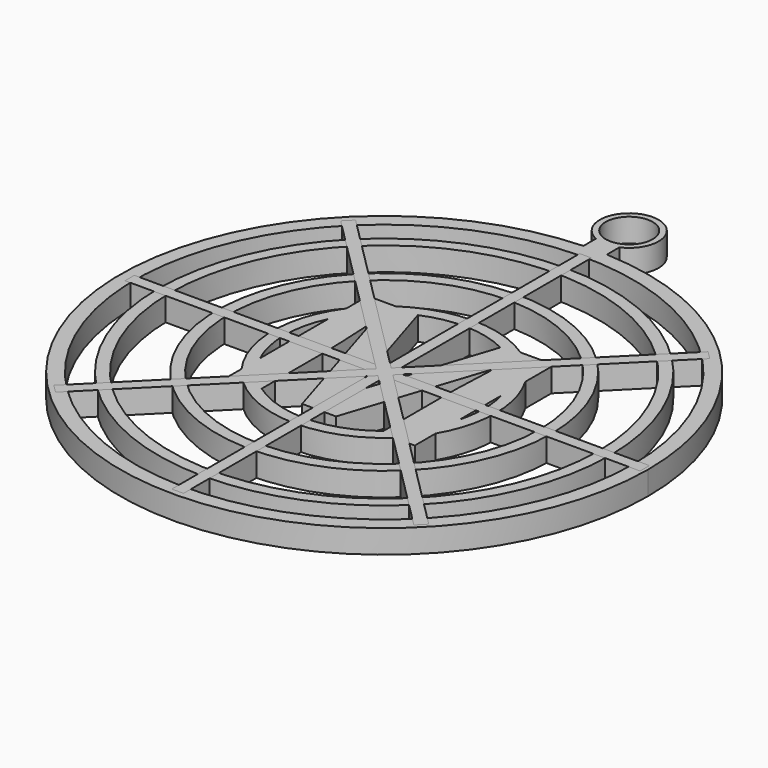
from build123d import *

# Parameters (mm, degrees)
F0_R     = 57.15
F1_DEPTH = 2.54
F2_R     = 53.975
F2_R_2   = 48.895
F2_R_3   = 46.355
F2_R_4   = 36.195
F2_R_5   = 33.655
F3_DEPTH = 5.08
F4_W     = 2.54
F4_H     = 38.1
F4_H_2   = 2.501237991
F4_W_2   = 18.2595572917
F4_H_3   = 2.54
F4_H_4   = 53.2313856006
F4_W_3   = 35.56
F4_W_4   = 19.5824739583
F5_DEPTH = 5.08
F7_DEPTH = 5.08
F8_R     = 5.08
F9_DEPTH = 2.54


with BuildPart() as f1:
    # F0 (on Top) → F1 (new body, symmetric)
    with BuildSketch(Plane.XY):
        Circle(F0_R)
    extrude(amount=F1_DEPTH, both=True)

    # F2 (on face) → F3 (cut, through all)
    with BuildSketch(Plane.XY.offset(2.54)):
        Circle(F2_R)
        Circle(F2_R_2, mode=Mode.SUBTRACT)
        Circle(F2_R_3)
        Circle(F2_R_4, mode=Mode.SUBTRACT)
        Circle(F2_R_5)
        with BuildLine():
            Line((20.8524739583, 19.9975390625), (20.8524739583, 12.1421262478))
            ThreePointArc((20.8524739583, 12.1421262478), (23.2962131753, 6.2883504747), (24.13, 0))
            ThreePointArc((24.13, 0), (23.2962131753, -6.2883504747), (20.8524739583, -12.1421262478))
            Line((20.8524739583, -12.1421262478), (20.8524739583, -17.78))
            Line((20.8524739583, -17.78), (16.3134453749, -17.78))
            ThreePointArc((16.3134453749, -17.78), (0, -24.13), (-16.3134453749, -17.78))
            Line((-16.3134453749, -17.78), (-19.5295572917, -17.78))
            Line((-19.5295572917, -17.78), (-19.5295572917, -14.1722719418))
            ThreePointArc((-19.5295572917, -14.1722719418), (-24.13, 0), (-19.5295572917, 14.1722719418))
            Line((-19.5295572917, 14.1722719418), (-19.5295572917, 19.9975390625))
            Line((-19.5295572917, 19.9975390625), (-13.5039006011, 19.9975390625))
            ThreePointArc((-13.5039006011, 19.9975390625), (0, 24.13), (13.5039006011, 19.9975390625))
            Line((13.5039006011, 19.9975390625), (20.8524739583, 19.9975390625))
        make_face(mode=Mode.SUBTRACT)
        with BuildLine():
            ThreePointArc((-12.3692708333, -17.6954581475), (0.6336834551, -21.5806984428), (13.3862630208, -16.9391871805))
            Line((13.3862630208, -16.9391871805), (13.3862630208, 0.1041796875))
            add(Edge.make_bspline(
                [(13.3862630208, 0.1041796875), (13.3862630208, 1.36921875), (13.4276041667, 3.0228645833)],
                knots=[0, 0, 0, 1, 1, 1], degree=2))
            add(Edge.make_bspline(
                [(13.4276041667, 3.0228645833), (13.4689453125, 4.6765104167), (13.7748697917, 11.8037239583)],
                knots=[0, 0, 0, 1, 1, 1], degree=2))
            Line((13.7748697917, 11.8037239583), (13.543359375, 11.8037239583))
            Line((13.543359375, 11.8037239583), (3.8033854167, -17.78))
            Line((3.8033854167, -17.78), (-3.5388020833, -17.78))
            Line((-3.5388020833, -17.78), (-12.6338541667, 11.8533333333))
            Line((-12.6338541667, 11.8533333333), (-12.8653645833, 11.8533333333))
            add(Edge.make_bspline(
                [(-12.8653645833, 11.8533333333), (-12.3692708333, 2.8161588542), (-12.3692708333, -0.2100130208)],
                knots=[0, 0, 0, 1, 1, 1], degree=2))
            Line((-12.3692708333, -0.2100130208), (-12.3692708333, -17.6954581475))
        make_face()
        with BuildLine():
            Line((0.4712890625, -8.8916536458), (9.7189801969, 19.2787324254))
            ThreePointArc((9.7189801969, 19.2787324254), (0.6353636743, 21.5806490403), (-8.5679449715, 19.8171243869))
            Line((-8.5679449715, 19.8171243869), (0.3141927083, -8.8916536458))
            Line((0.3141927083, -8.8916536458), (0.4712890625, -8.8916536458))
        make_face()
        with BuildLine():
            Line((-19.5295572917, -9.2045908107), (-19.5295572917, 9.2045908107))
            ThreePointArc((-19.5295572917, 9.2045908107), (-21.59, 0), (-19.5295572917, -9.2045908107))
        make_face()
        with BuildLine():
            ThreePointArc((20.8524739583, -5.5948574439), (21.4048243716, -2.8216296036), (21.59, 0))
            ThreePointArc((21.59, 0), (21.4048243716, 2.8216296036), (20.8524739583, 5.5948574439))
            Line((20.8524739583, 5.5948574439), (20.8524739583, -5.5948574439))
        make_face()
    extrude(amount=-F3_DEPTH, mode=Mode.SUBTRACT)

    # F8 (on Top) → F9 (join, symmetric)
    with BuildSketch(Plane.XY):
        with BuildLine():
            Line((-2.54, 60.4929113338), (-2.54, 55.88))
            Line((-2.54, 55.88), (2.54, 55.88))
            Line((2.54, 55.88), (2.54, 60.4929113338))
            ThreePointArc((2.54, 60.4929113338), (0, 72.6627824664), (-2.54, 60.4929113338))
        make_face()
        with Locations((0, 66.3127824664)):
            Circle(F8_R, mode=Mode.SUBTRACT)
    extrude(amount=F9_DEPTH, both=True)


with BuildPart() as f5:
    # F4 (on face) → F5 (new body, through all)
    with BuildSketch(Plane.XY.offset(2.54)):
        Polygon((-1.27, -3.771237991), (-1.27, -17.78), (1.27, -17.78), (1.27, -6.4586143994), (1.27, -3.771237991), align=None)
        with Locations((0, -36.83)):
            Rectangle(F4_W, F4_H)
        with Locations((0, -2.5206189955)):
            Rectangle(F4_W, F4_H_2)
        with Locations((-10.3997786458, 0)):
            Rectangle(F4_W_2, F4_H_3)
        Rectangle(F4_W, F4_H_3)
        with Locations((0, 27.8856928003)):
            Rectangle(F4_W, F4_H_4)
        with Locations((-37.3095572917, 0)):
            Rectangle(F4_W_3, F4_H_3)
        with Locations((11.0612369792, 0)):
            Rectangle(F4_W_4, F4_H_3)
        with Locations((38.6324739583, 0)):
            Rectangle(F4_W_3, F4_H_3)
    extrude(amount=-F5_DEPTH)


with BuildPart() as f7:
    # F6 (on face) → F7 (new body, through all)
    with BuildSketch(Plane.XY.offset(2.54)):
        Polygon((-38.522596748, 40.4228276597), (-40.3186479722, 38.6267764355), (-1.7960512242, 0.1041796875), (0, 1.9002309117), align=None)
        Polygon((0, 1.9002309117), (-1.7960512242, 0.1041796875), (0, -1.6918715367), (1.7960512242, 0.1041796875), align=None)
        Polygon((0, -1.6918715367), (-1.7960512242, 0.1041796875), (-40.56575401, -38.6655230982), (-38.7697027857, -40.4615743225), align=None)
        Polygon((1.7960512242, 0.1041796875), (0, -1.6918715367), (38.886425444, -40.5782969807), (40.6824766682, -38.7822457565), align=None)
        Polygon((38.1141242547, 40.0143551664), (0, 1.9002309117), (1.7960512242, 0.1041796875), (39.9101754789, 38.2183039422), align=None)
    extrude(amount=-F7_DEPTH)


solid = Compound([f1.part, f5.part, f7.part])
